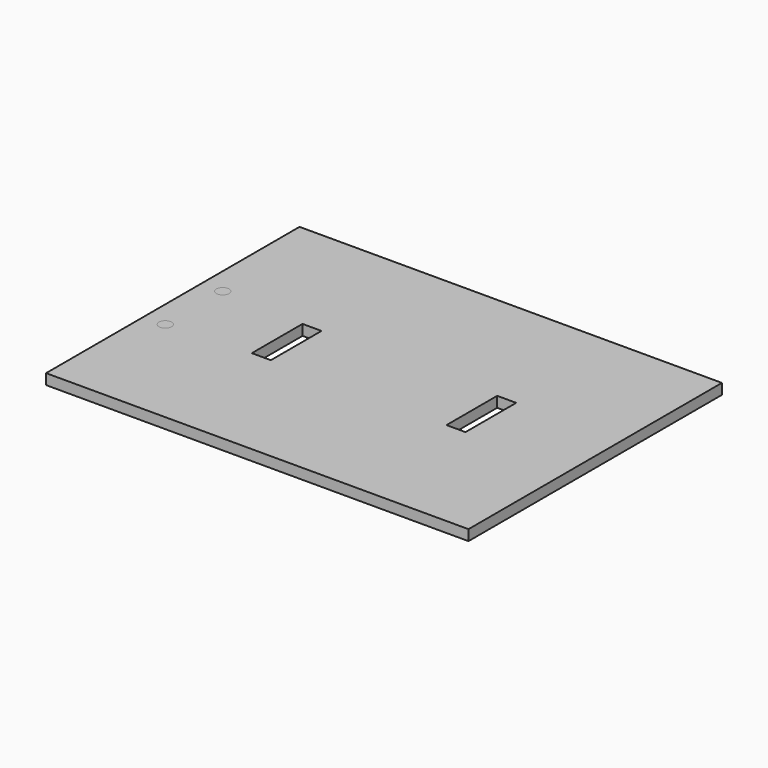
from build123d import *

# Parameters (mm, degrees)
F0_W     = 200
F0_H     = 150
F0_W_2   = 9
F0_H_2   = 30
F6_DEPTH = 5
F1_W     = 200
F1_H     = 150
F1_R     = 2.5
F1_W_2   = 9
F1_H_2   = 30
F2_W     = 200
F2_H     = 150
F2_R     = 2.5
F2_W_2   = 9
F2_H_2   = 30
F5_W     = 200
F5_H     = 150
F5_W_2   = 9
F5_H_2   = 30
F4_W     = 200
F4_H     = 150
F4_W_2   = 9
F4_H_2   = 30
F4_W_3   = 20
F4_H_3   = 20
F4_R     = 5
F3_W     = 200
F3_H     = 150
F3_R     = 3
F3_W_2   = 9
F3_H_2   = 30


with BuildPart() as f6:
    # F0 (on Top) → F6 (new body)
    with BuildSketch(Plane.XY):
        Rectangle(F0_W, F0_H)
        with Locations((-46.0899434984, 0)):
            Rectangle(F0_W_2, F0_H_2, mode=Mode.SUBTRACT)
        with Locations((46.0899434984, 0)):
            Rectangle(F0_W_2, F0_H_2, mode=Mode.SUBTRACT)
    extrude(amount=F6_DEPTH)


with BuildPart() as f6b:
    # F1 (on face) → F6, piece 2 (new body)
    with BuildSketch(Plane.XY):
        Rectangle(F1_W, F1_H)
        with Locations((-91.5, -66.5)):
            Circle(F1_R, mode=Mode.SUBTRACT)
        with Locations((91.5, -66.5)):
            Circle(F1_R, mode=Mode.SUBTRACT)
        with Locations((-46.0899434984, 0)):
            Rectangle(F1_W_2, F1_H_2, mode=Mode.SUBTRACT)
        with Locations((-91.5, 66.5)):
            Circle(F1_R, mode=Mode.SUBTRACT)
        with Locations((46.0899434984, 0)):
            Rectangle(F1_W_2, F1_H_2, mode=Mode.SUBTRACT)
        with Locations((91.5, 66.5)):
            Circle(F1_R, mode=Mode.SUBTRACT)
    extrude(amount=F6_DEPTH)


with BuildPart() as f6c:
    # F2 (on face) → F6, piece 3 (new body)
    with BuildSketch(Plane.XY):
        Rectangle(F2_W, F2_H)
        with Locations((-79.5, -66.5)):
            Circle(F2_R, mode=Mode.SUBTRACT)
        with Locations((79.5, -66.5)):
            Circle(F2_R, mode=Mode.SUBTRACT)
        with Locations((-46.0899434984, 0)):
            Rectangle(F2_W_2, F2_H_2, mode=Mode.SUBTRACT)
        with Locations((-79.5, 66.5)):
            Circle(F2_R, mode=Mode.SUBTRACT)
        with Locations((46.0899434984, 0)):
            Rectangle(F2_W_2, F2_H_2, mode=Mode.SUBTRACT)
        with Locations((79.5, 66.5)):
            Circle(F2_R, mode=Mode.SUBTRACT)
    extrude(amount=F6_DEPTH)


with BuildPart() as f6d:
    # F5 (on face) → F6, piece 4 (new body)
    with BuildSketch(Plane.XY):
        Rectangle(F5_W, F5_H)
        with Locations((-46.0899434984, 0)):
            Rectangle(F5_W_2, F5_H_2, mode=Mode.SUBTRACT)
        with Locations((46.0899434984, 0)):
            Rectangle(F5_W_2, F5_H_2, mode=Mode.SUBTRACT)
    extrude(amount=F6_DEPTH)


with BuildPart() as f6e:
    # F4 (on face) → F6, piece 5 (new body)
    with BuildSketch(Plane.XY):
        Rectangle(F4_W, F4_H)
        with Locations((-46.0899434984, 0)):
            Rectangle(F4_W_2, F4_H_2, mode=Mode.SUBTRACT)
        Rectangle(F4_W_3, F4_H_3, mode=Mode.SUBTRACT)
        with Locations((46.0899434984, 0)):
            Rectangle(F4_W_2, F4_H_2, mode=Mode.SUBTRACT)
        with Locations((84.0889811516, 0)):
            Circle(F4_R, mode=Mode.SUBTRACT)
    extrude(amount=F6_DEPTH)


with BuildPart() as f6f:
    # F3 (on face) → F6, piece 6 (new body)
    with BuildSketch(Plane.XY):
        Rectangle(F3_W, F3_H)
        with Locations((-89.9515226483, -17)):
            Circle(F3_R, mode=Mode.SUBTRACT)
        with Locations((-89.9515226483, 17)):
            Circle(F3_R, mode=Mode.SUBTRACT)
        with Locations((-46.0899434984, 0)):
            Rectangle(F3_W_2, F3_H_2, mode=Mode.SUBTRACT)
        with Locations((46.0899434984, 0)):
            Rectangle(F3_W_2, F3_H_2, mode=Mode.SUBTRACT)
    extrude(amount=F6_DEPTH)


solid = Compound([f6.part, f6b.part, f6c.part, f6d.part, f6e.part, f6f.part])
